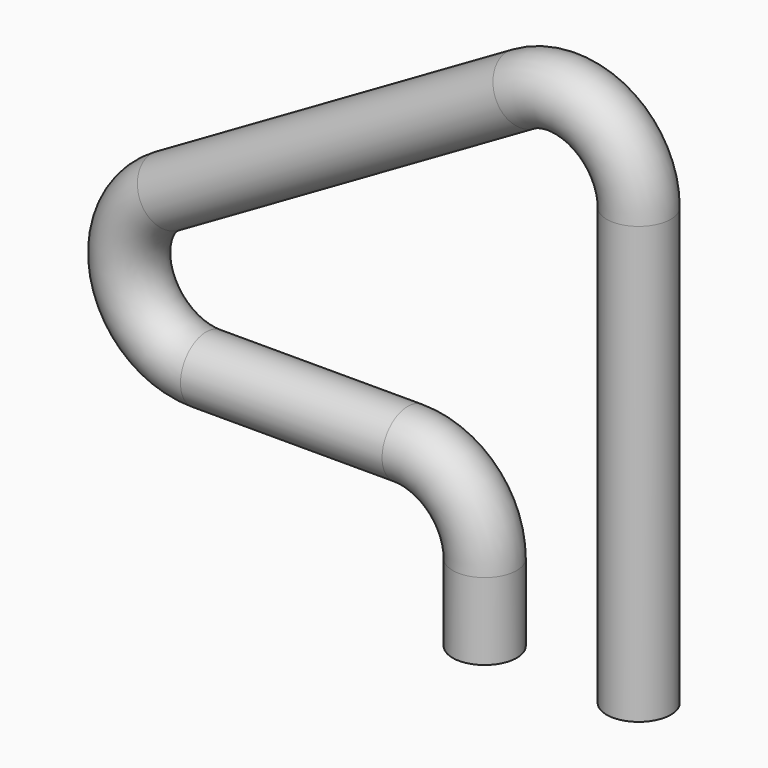
from build123d import *

# Parameters (mm, degrees)
F2_R = 6.35


with BuildPart() as f3:
    # F3: sweep along a path in F0
    with BuildLine(Plane.XZ) as f3_path:
        Line((0, 0), (0, 86.36))
        ThreePointArc((0, 86.36), (-7.62, 99.5582271537), (-22.86, 99.5582271537))
        Line((-22.86, 99.5582271537), (-93.2505448196, 58.9182271537))
        ThreePointArc((-93.2505448196, 58.9182271537), (-100.3512544122, 41.7755977526), (-85.6305448196, 30.48))
        Line((-85.6305448196, 30.48), (-45.72, 30.48))
        ThreePointArc((-45.72, 30.48), (-34.9436926547, 26.0163073453), (-30.48, 15.24))
        Line((-30.48, 15.24), (-30.48, 0))
    # F2 (on line) → F3 (sweep)
    with BuildSketch(Plane.XY):
        Circle(F2_R)
    sweep(path=f3_path.line)


solid = f3.part
